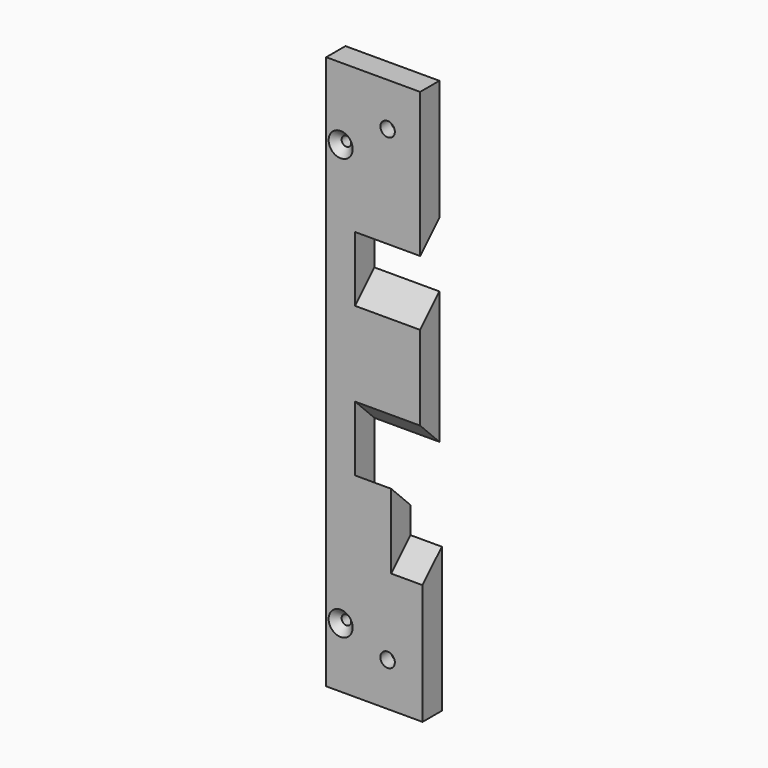
from build123d import *

# Parameters (mm, degrees)
F1_DEPTH        = 5
F4_DEPTH        = 13.5
F6_DEPTH        = 7.5
F8_DEPTH        = 6.5
F10_D           = 3
F10_CSINK_D     = 7.5
F10_CSINK_ANGLE = 90
F12_D           = 2
F12_CSINK_D     = 5
F12_CSINK_ANGLE = 90


with BuildPart() as f1:
    # F0 (on Front) → F1 (new body)
    with BuildSketch(Plane.XZ):
        Polygon((19.12546, 114.327021), (-0.37454, 114.327021), (-0.37454, -0.672979), (19.62546, -0.672979), (19.62546, 29.327021), (13.12546, 29.327021), (13.12546, 39.827021), (5.62546, 39.827021), (5.62546, 48.327021), (19.12546, 48.327021), (19.12546, 75.827021), (5.62546, 75.827021), (5.62546, 84.327021), (19.12546, 84.327021), align=None)
    extrude(amount=F1_DEPTH)

    # F2 (on face) + F3 (on face) → F4 (cut)
    with BuildSketch(Plane.YZ.offset(19.12546)):
        Polygon((0, 89.327021), (-5, 84.327021), (0, 84.327021), align=None)
    with BuildSketch(Plane.YZ.offset(19.12546)):
        Polygon((-5, 70.827021), (0, 75.827021), (-5, 75.827021), align=None)
        Polygon((-5, 48.327021), (0, 48.327021), (-5, 53.327021), align=None)
    extrude(amount=-F4_DEPTH, mode=Mode.SUBTRACT)

    # F5 (on face) → F6 (cut)
    with BuildSketch(Plane.YZ.offset(13.12546)):
        Polygon((0, 39.827021), (-5, 39.827021), (0, 34.827021), align=None)
    extrude(amount=-F6_DEPTH, mode=Mode.SUBTRACT)

    # F7 (on face) → F8 (cut)
    with BuildSketch(Plane.YZ.offset(19.62546)):
        Polygon((-5, 24.327021), (0, 29.327021), (-5, 29.327021), align=None)
    extrude(amount=-F8_DEPTH, mode=Mode.SUBTRACT)

    # F10 (through all)
    with Locations(Plane(origin=(0, 0, 0), x_dir=(-1, 0, 0), z_dir=(0, 1, 0))):
        with Locations((-12.37546, 105.327021), (-12.37546, 8.327021)):
            CounterSinkHole(F10_D / 2, F10_CSINK_D / 2, counter_sink_angle=F10_CSINK_ANGLE)

    # F12 (through all)
    with Locations(Plane.XZ.offset(5)):
        with Locations((2.62546, 11.827021), (2.62546, 99.327021)):
            CounterSinkHole(F12_D / 2, F12_CSINK_D / 2, counter_sink_angle=F12_CSINK_ANGLE)


solid = f1.part
